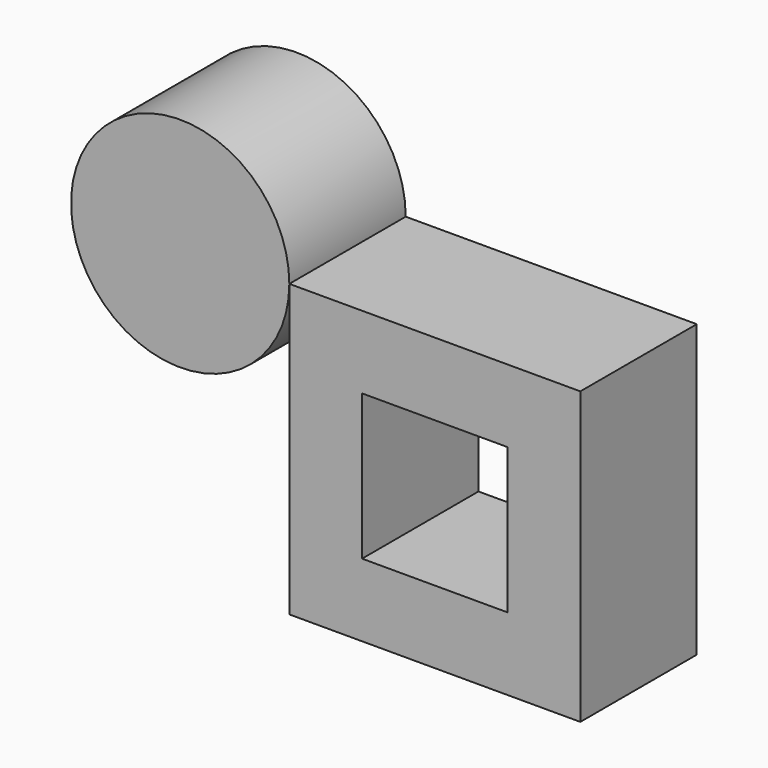
from build123d import *

# Parameters (mm, degrees)
F0_W     = 50.8
F0_H     = 50.8
F0_W_2   = 25.4
F0_H_2   = 25.4
F0_R     = 19.05
F1_DEPTH = 25.4


with BuildPart() as f1:
    # F0 (on Front) → F1 (new body)
    with BuildSketch(Plane.XZ):
        with Locations((-25.4, 25.4)):
            Rectangle(F0_W, F0_H)
        with Locations((-25.4, 25.4)):
            Rectangle(F0_W_2, F0_H_2, mode=Mode.SUBTRACT)
        with Locations((-69.85, 50.8)):
            Circle(F0_R)
    extrude(amount=F1_DEPTH)


solid = f1.part
